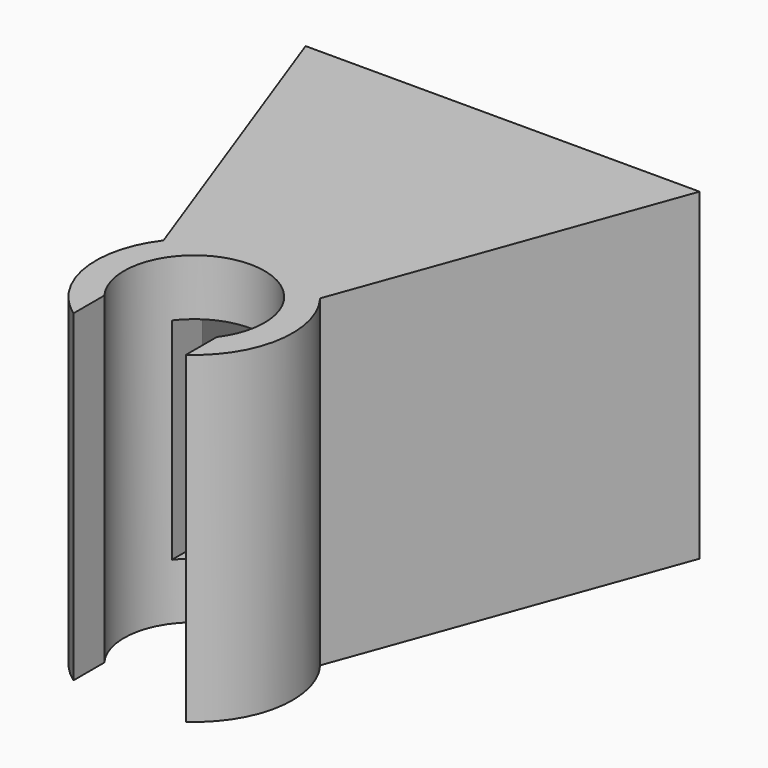
from build123d import *

# Parameters (mm, degrees)
F1_DEPTH = 23
F3_DEPTH = 2
F5_DEPTH = 2
F6_W     = 8
F6_H     = 15
F7_DEPTH = 25


with BuildPart() as f1:
    # F0 (on Top) → F1 (new body)
    with BuildSketch(Plane.XY):
        with BuildLine():
            Line((-14.0209387689, 27.4292568356), (-5.5771887097, 4.2302442124))
            ThreePointArc((-5.5771887097, 4.2302442124), (-4.8480847739, 5.0493637247), (-4, 5.7445626465))
            Line((-4, 5.7445626465), (-11.892583224, 27.4292568356))
            Line((-11.892583224, 27.4292568356), (-14.0209387689, 27.4292568356))
        make_face()
        with BuildLine():
            ThreePointArc((-4, -3), (0, 5), (4, -3))
            Line((4, -3), (4, -5.7445626465))
            ThreePointArc((4, -5.7445626465), (6.9141036197, -1.0932388287), (5.5771887097, 4.2302442124))
            ThreePointArc((5.5771887097, 4.2302442124), (4.8480847739, 5.0493637247), (4, 5.7445626465))
            ThreePointArc((4, 5.7445626465), (0, 7), (-4, 5.7445626465))
            ThreePointArc((-4, 5.7445626465), (-4.8480847739, 5.0493637247), (-5.5771887097, 4.2302442124))
            ThreePointArc((-5.5771887097, 4.2302442124), (-6.9141036197, -1.0932388287), (-4, -5.7445626465))
            Line((-4, -5.7445626465), (-4, -3))
        make_face()
        with BuildLine():
            ThreePointArc((4, 5.7445626465), (4.8480847739, 5.0493637247), (5.5771887097, 4.2302442124))
            Line((5.5771887097, 4.2302442124), (14.0209387689, 27.4292568356))
            Line((14.0209387689, 27.4292568356), (11.892583224, 27.4292568356))
            Line((11.892583224, 27.4292568356), (4, 5.7445626465))
        make_face()
    extrude(amount=F1_DEPTH)

    # F2 (on face) → F3 (join)
    with BuildSketch(Plane.XY.offset(23)):
        with BuildLine():
            Line((11.892583224, 27.4292568356), (-11.892583224, 27.4292568356))
            Line((-11.892583224, 27.4292568356), (-4, 5.7445626465))
            ThreePointArc((-4, 5.7445626465), (0, 7), (4, 5.7445626465))
            Line((4, 5.7445626465), (11.892583224, 27.4292568356))
        make_face()
    extrude(amount=-F3_DEPTH)

    # F4 (on face) → F5 (join)
    with BuildSketch(Plane(origin=(0, 0, 0), x_dir=(1, 0, 0), z_dir=(0, 0, -1))):
        with BuildLine():
            Line((-11.892583224, -27.4292568356), (11.892583224, -27.4292568356))
            Line((11.892583224, -27.4292568356), (4, -5.7445626465))
            ThreePointArc((4, -5.7445626465), (0, -7), (-4, -5.7445626465))
            Line((-4, -5.7445626465), (-11.892583224, -27.4292568356))
        make_face()
    extrude(amount=-F5_DEPTH)

    # F6 (on Front) → F7 (cut)
    with BuildSketch(Plane.XZ):
        with Locations((0, 11.5)):
            Rectangle(F6_W, F6_H)
    extrude(amount=-F7_DEPTH, mode=Mode.SUBTRACT)


solid = f1.part
